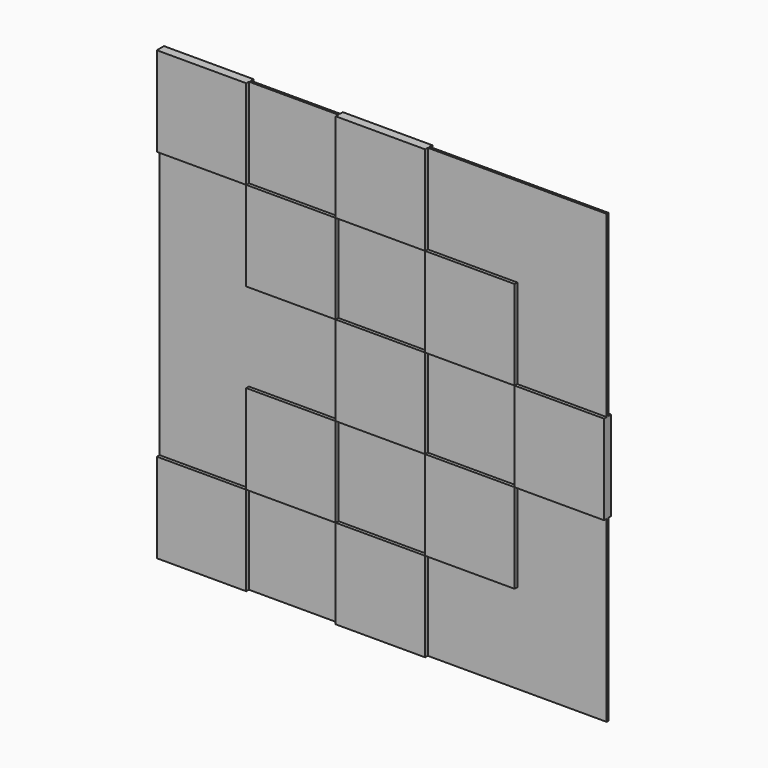
from build123d import *

# Parameters (mm, degrees)
F0_W     = 20
F0_H     = 20
F1_DEPTH = 1
F2_DEPTH = 0.25


with BuildPart() as f1:
    # F0 (on Front) → F1 (new body, symmetric)
    with BuildSketch(Plane.XZ):
        with Locations((-40, 40)):
            Rectangle(F0_W, F0_H)
    extrude(amount=F1_DEPTH, both=True)


with BuildPart() as f1b:
    # F0 (on Front) → F1, piece 2 (new body, symmetric)
    with BuildSketch(Plane.XZ):
        with Locations((-20, 20)):
            Rectangle(F0_W, F0_H)
    extrude(amount=F1_DEPTH, both=True)


with BuildPart() as f1c:
    # F0 (on Front) → F1, piece 3 (new body, symmetric)
    with BuildSketch(Plane.XZ):
        Rectangle(F0_W, F0_H)
    extrude(amount=F1_DEPTH, both=True)


with BuildPart() as f1d:
    # F0 (on Front) → F1, piece 4 (new body, symmetric)
    with BuildSketch(Plane.XZ):
        with Locations((-20, -20)):
            Rectangle(F0_W, F0_H)
    extrude(amount=F1_DEPTH, both=True)


with BuildPart() as f1e:
    # F0 (on Front) → F1, piece 5 (new body, symmetric)
    with BuildSketch(Plane.XZ):
        with Locations((-40, -40)):
            Rectangle(F0_W, F0_H)
    extrude(amount=F1_DEPTH, both=True)


with BuildPart() as f1f:
    # F0 (on Front) → F1, piece 6 (new body, symmetric)
    with BuildSketch(Plane.XZ):
        with Locations((0, 40)):
            Rectangle(F0_W, F0_H)
    extrude(amount=F1_DEPTH, both=True)


with BuildPart() as f1g:
    # F0 (on Front) → F1, piece 7 (new body, symmetric)
    with BuildSketch(Plane.XZ):
        with Locations((20, 20)):
            Rectangle(F0_W, F0_H)
    extrude(amount=F1_DEPTH, both=True)


with BuildPart() as f1h:
    # F0 (on Front) → F1, piece 8 (new body, symmetric)
    with BuildSketch(Plane.XZ):
        with Locations((40, 0)):
            Rectangle(F0_W, F0_H)
    extrude(amount=F1_DEPTH, both=True)


with BuildPart() as f1i:
    # F0 (on Front) → F1, piece 9 (new body, symmetric)
    with BuildSketch(Plane.XZ):
        with Locations((20, -20)):
            Rectangle(F0_W, F0_H)
    extrude(amount=F1_DEPTH, both=True)


with BuildPart() as f1j:
    # F0 (on Front) → F1, piece 10 (new body, symmetric)
    with BuildSketch(Plane.XZ):
        with Locations((0, -40)):
            Rectangle(F0_W, F0_H)
    extrude(amount=F1_DEPTH, both=True)


with BuildPart() as f2:
    # F0 (on Front) → F2 (new body, symmetric)
    with BuildSketch(Plane.XZ):
        with Locations((-40, 20)):
            Rectangle(F0_W, F0_H)
        with Locations((-40, 0)):
            Rectangle(F0_W, F0_H)
        with Locations((-40, -20)):
            Rectangle(F0_W, F0_H)
        with Locations((-20, 0)):
            Rectangle(F0_W, F0_H)
    extrude(amount=F2_DEPTH, both=True)


with BuildPart() as f2b:
    # F0 (on Front) → F2, piece 2 (new body, symmetric)
    with BuildSketch(Plane.XZ):
        with Locations((-20, 40)):
            Rectangle(F0_W, F0_H)
    extrude(amount=F2_DEPTH, both=True)


with BuildPart() as f2c:
    # F0 (on Front) → F2, piece 3 (new body, symmetric)
    with BuildSketch(Plane.XZ):
        with Locations((0, 20)):
            Rectangle(F0_W, F0_H)
    extrude(amount=F2_DEPTH, both=True)


with BuildPart() as f2d:
    # F0 (on Front) → F2, piece 4 (new body, symmetric)
    with BuildSketch(Plane.XZ):
        with Locations((20, 0)):
            Rectangle(F0_W, F0_H)
    extrude(amount=F2_DEPTH, both=True)


with BuildPart() as f2e:
    # F0 (on Front) → F2, piece 5 (new body, symmetric)
    with BuildSketch(Plane.XZ):
        with Locations((0, -20)):
            Rectangle(F0_W, F0_H)
    extrude(amount=F2_DEPTH, both=True)


with BuildPart() as f2f:
    # F0 (on Front) → F2, piece 6 (new body, symmetric)
    with BuildSketch(Plane.XZ):
        with Locations((-20, -40)):
            Rectangle(F0_W, F0_H)
    extrude(amount=F2_DEPTH, both=True)


with BuildPart() as f2g:
    # F0 (on Front) → F2, piece 7 (new body, symmetric)
    with BuildSketch(Plane.XZ):
        with Locations((20, -40)):
            Rectangle(F0_W, F0_H)
        with Locations((40, -40)):
            Rectangle(F0_W, F0_H)
        with Locations((40, -20)):
            Rectangle(F0_W, F0_H)
    extrude(amount=F2_DEPTH, both=True)


with BuildPart() as f2h:
    # F0 (on Front) → F2, piece 8 (new body, symmetric)
    with BuildSketch(Plane.XZ):
        with Locations((40, 20)):
            Rectangle(F0_W, F0_H)
        with Locations((40, 40)):
            Rectangle(F0_W, F0_H)
        with Locations((20, 40)):
            Rectangle(F0_W, F0_H)
    extrude(amount=F2_DEPTH, both=True)


solid = Compound([f1.part, f1b.part, f1c.part, f1d.part, f1e.part, f1f.part, f1g.part, f1h.part, f1i.part, f1j.part, f2.part, f2b.part, f2c.part, f2d.part, f2e.part, f2f.part, f2g.part, f2h.part])
